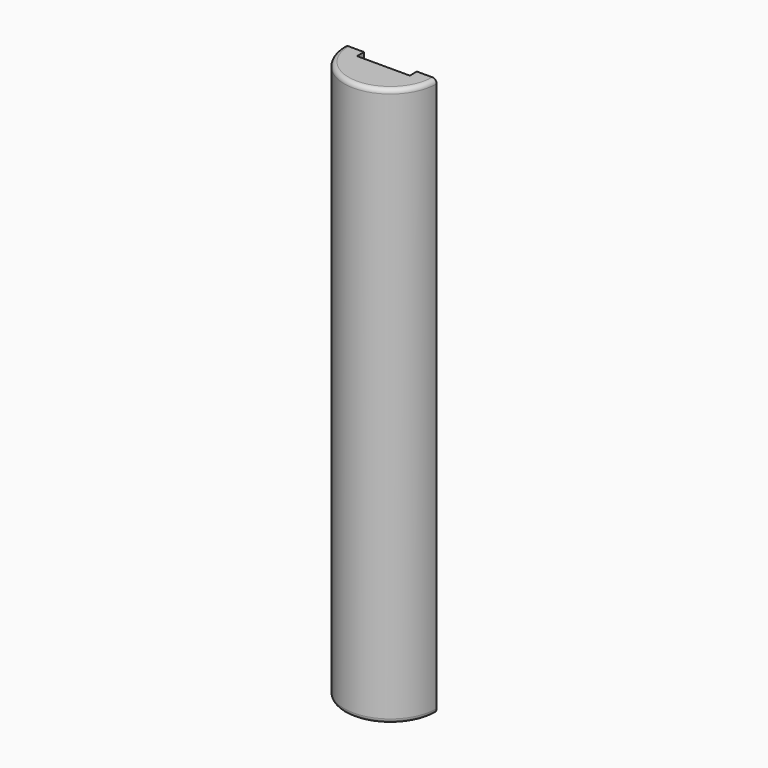
from build123d import *

# Parameters (mm, degrees)
F0_W     = 10.5
F0_H     = 127
F1_ANGLE = 180
F3_DEPTH = 127
F4_R     = 1
F5_R     = 1


with BuildPart() as f1:
    # F0 (on Front) → F1 (revolve)
    with BuildSketch(Plane.XZ):
        Rectangle(F0_W, F0_H)
    revolve(axis=Axis((5.25, 0, 0), (0, 0, -1)), revolution_arc=F1_ANGLE)

    # F2 (on face) → F3 (cut)
    with BuildSketch(Plane.XY.offset(63.5)):
        with BuildLine():
            Line((-0.75, 0), (5.25, 0))
            Line((5.25, 0), (11.25, 0))
            Line((11.25, 0), (11.25, 1.8))
            ThreePointArc((11.25, 1.8), (11.1914213562, 1.9414213562), (11.05, 2))
            Line((11.05, 2), (-0.55, 2))
            ThreePointArc((-0.55, 2), (-0.6914213562, 1.9414213562), (-0.75, 1.8))
            Line((-0.75, 1.8), (-0.75, 0))
        make_face()
    extrude(amount=-F3_DEPTH, mode=Mode.SUBTRACT)

    # F4
    f4_edges = [f1.edges().sort_by_distance(p)[0] for p in [
        (5.25, 10.5, 63.5),
    ]]
    fillet(f4_edges, radius=F4_R)

    # F5
    f5_edges = [f1.edges().sort_by_distance(p)[0] for p in [
        (5.25, 10.5, -63.5),
    ]]
    fillet(f5_edges, radius=F5_R)


with BuildPart() as f6_1:
    # F6: instance of F1
    add(f1.part.mirror(Plane.XZ))


solid = f6_1.part
